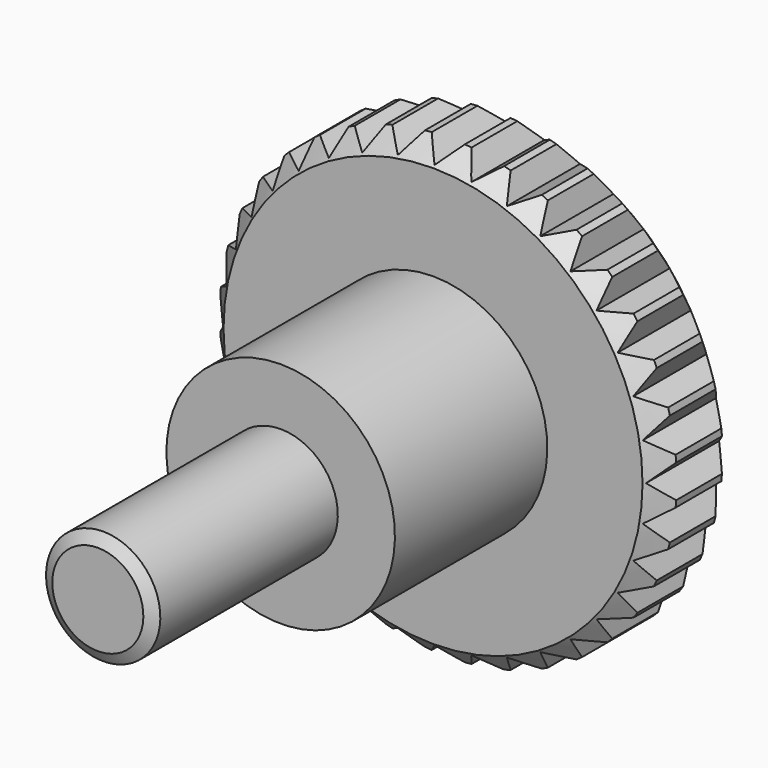
from build123d import *

# Parameters (mm, degrees)
POCKET_DEPTH       = 56.871497
POLARPATTERN_COUNT = 36


with BuildPart() as part:
    # Sketch → Revolution (revolve)
    with BuildSketch(Plane.YZ):
        Polygon((0, 0), (0, 1.195), (0.176092, 1.5), (6, 1.5), (6, 3), (11, 3), (11, 5.5), (11.5, 6), (13, 6), (13.5, 5.5), (13.5, 0), align=None)
    revolve(axis=Axis((0, 0, 0), (0, 1, 0)))

    # Sketch001 → Pocket (cut, through all)
    with BuildSketch(Plane.ZX.offset(13.5)):
        Polygon((-0.5, 6.05), (0, 5.55), (0.5, 6.05), align=None)
    pocket = extrude(amount=-POCKET_DEPTH, mode=Mode.SUBTRACT)

    # PolarPattern: Pocket ×36 about axis
    polarpattern_axis = Axis((0, 13.5, 0), (0, 1, 0))
    for i in range(1, POLARPATTERN_COUNT):
        add(pocket.rotate(polarpattern_axis, i * 360 / POLARPATTERN_COUNT), mode=Mode.SUBTRACT)


solid = part.part
